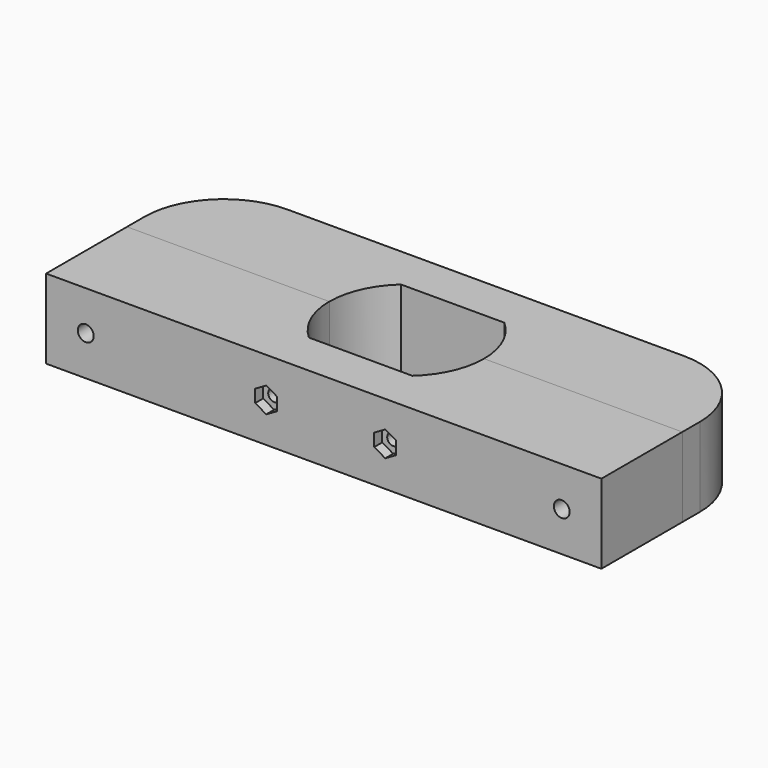
from build123d import *

# Parameters (mm, degrees)
PAD_DEPTH            = 10
SKETCH001_R          = 2
SKETCH001_R_2        = 1.5
POCKET_DEPTH         = 25.5
POCKET001_DEPTH      = 2.5
SKETCH003_R          = 2.75
POCKET002_DEPTH      = 3
POCKET002_DEPTH_BACK = -10
PAD001_DEPTH         = 10
FILLET_R             = 20
SKETCH005_R          = 2
POCKET003_DEPTH      = 25.5
SKETCH006_R          = 3.5
POCKET004_DEPTH      = 18


with BuildPart() as body:
    # Sketch → Pad (new body, symmetric)
    with BuildSketch(Plane.XY):
        with BuildLine():
            Line((0, 0), (140, 0))
            Line((140, 0), (140, 25.5))
            Line((140, 25.5), (90, 25.5))
            ThreePointArc((83.538405, 11), (88.311498, 17.562711), (90, 25.5))
            Line((83.538405, 11), (57.461595, 11))
            ThreePointArc((51, 25.5), (52.688502, 17.562711), (57.461595, 11))
            Line((51, 25.5), (0, 25.5))
            Line((0, 25.5), (0, 0))
        make_face()
    extrude(amount=PAD_DEPTH, both=True)

    # Sketch001 → Pocket (cut)
    with BuildSketch(Plane.XZ):
        with Locations((10, 0)):
            Circle(SKETCH001_R)
        with Locations((130, 0)):
            Circle(SKETCH001_R)
        with Locations((55.5, 0)):
            Circle(SKETCH001_R_2)
        with Locations((85.5, 0)):
            Circle(SKETCH001_R_2)
    extrude(amount=-POCKET_DEPTH, mode=Mode.SUBTRACT)

    # Sketch002 → Pocket001 (cut)
    with BuildSketch(Plane.XZ):
        Polygon((85.5, -3.2), (88.271281, -1.6), (88.271281, 1.6), (85.5, 3.2), (82.728719, 1.6), (82.728719, -1.6), align=None)
        Polygon((52.728719, -1.6), (55.5, -3.2), (58.271281, -1.6), (58.271281, 1.6), (55.5, 3.2), (52.728719, 1.6), align=None)
    extrude(amount=-POCKET001_DEPTH, mode=Mode.SUBTRACT)

    # Sketch003 (on Face7 of Pocket001) → Pocket002 (cut, two sides)
    with BuildSketch(Plane(origin=(0, 11, 0), x_dir=(1, 0, 0), z_dir=(0, 1, 0))) as pocket002_sk:
        with Locations((55.5, 0)):
            Circle(SKETCH003_R)
        with Locations((85.5, 0)):
            Circle(SKETCH003_R)
    extrude(amount=-POCKET002_DEPTH, mode=Mode.SUBTRACT)
    extrude(pocket002_sk.sketch, amount=-POCKET002_DEPTH_BACK, mode=Mode.SUBTRACT)


with BuildPart() as body_1:
    # Body placement: moved
    add(body.part.moved(Location((0, -25.5, 0))))


with BuildPart() as body001:
    # Sketch004 → Pad001 (new body, symmetric)
    with BuildSketch(Plane.XY):
        with BuildLine():
            Line((0, 0), (51, 0))
            ThreePointArc((57.461595, 14.5), (52.688502, 7.937289), (51, 0))
            Line((83.538405, 14.5), (57.461595, 14.5))
            ThreePointArc((90, 0), (88.311498, 7.937289), (83.538405, 14.5))
            Line((90, 0), (140, 0))
            Line((140, 0), (140, 25.5))
            Line((140, 25.5), (0, 25.5))
            Line((0, 25.5), (0, 0))
        make_face()
    extrude(amount=PAD001_DEPTH, both=True)

    # Fillet
    fillet_edges = [body001.edges().sort_by_distance(p)[0] for p in [
        (0, 25.5, 0),
        (140, 25.5, 0),
    ]]
    fillet(fillet_edges, radius=FILLET_R)

    # Sketch005 → Pocket003 (cut)
    with BuildSketch(Plane.XZ):
        with Locations((10, 0)):
            Circle(SKETCH005_R)
        with Locations((130, 0)):
            Circle(SKETCH005_R)
    extrude(amount=-POCKET003_DEPTH, mode=Mode.SUBTRACT)

    # Sketch006 (on Face6 of Pocket003) → Pocket004 (cut)
    with BuildSketch(Plane(origin=(0, 25.5, 0), x_dir=(1, 0, 0), z_dir=(0, 1, 0))):
        with Locations((10, 0)):
            Circle(SKETCH006_R)
        with Locations((130, 0)):
            Circle(SKETCH006_R)
    extrude(amount=-POCKET004_DEPTH, mode=Mode.SUBTRACT)


solid = Compound([body_1.part, body001.part])
